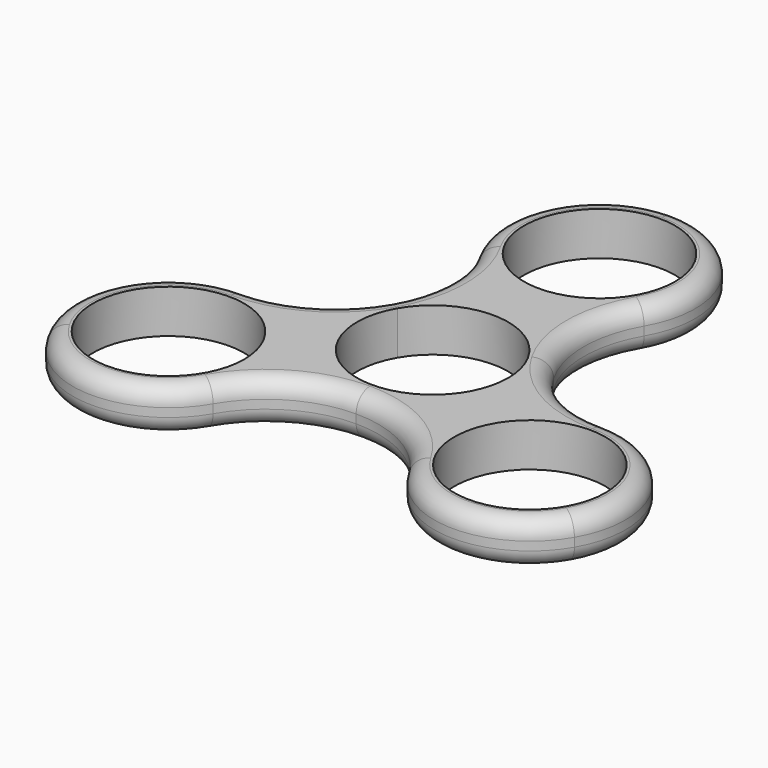
from build123d import *

# Parameters (mm, degrees)
F0_R     = 11.049
F1_DEPTH = 6.35
F2_R     = 2.54


with BuildPart() as f1:
    # F0 (on Top) → F1 (new body)
    with BuildSketch(Plane.XY):
        with BuildLine():
            ThreePointArc((-12.0983748909, 23.495), (-9.8864543073, 15.24), (-12.0983748909, 6.985))
            ThreePointArc((-12.0983748909, 6.985), (-1.1e-08, 13.97), (12.0983748798, 6.9850000191))
            ThreePointArc((12.0983748798, 6.9850000191), (9.8864543073, 15.240000011), (12.0983748909, 23.495))
            ThreePointArc((12.0983748909, 23.495), (12.0983748658, 37.4650000434), (-1.001e-07, 44.45))
            ThreePointArc((-1.001e-07, 44.45), (-12.0983749159, 37.4649999566), (-12.0983748909, 23.495))
        make_face()
        with Locations((0, 30.48)):
            Circle(F0_R, mode=Mode.SUBTRACT)
        with BuildLine():
            ThreePointArc((4.33e-08, -13.97), (-12.09837488, -6.9850000188), (-12.0983748909, 6.985))
            ThreePointArc((-12.0983748909, 6.985), (-18.1414543073, 0.9419205835), (-26.3964543073, -1.27))
            ThreePointArc((-26.3964543073, -1.27), (-38.494829072, -8.2549997814), (-38.4948294507, -22.2249995628))
            ThreePointArc((-38.4948294507, -22.2249995628), (-26.3964545598, -29.21), (-14.2980794165, -22.225))
            ThreePointArc((-14.2980794165, -22.225), (-8.2549999812, -16.1819205727), (4.33e-08, -13.97))
        make_face()
        with Locations((-26.3964543073, -15.24)):
            Circle(F0_R, mode=Mode.SUBTRACT)
        with BuildLine():
            ThreePointArc((26.3964543073, -1.27), (18.1414542978, 0.941920589), (12.0983748798, 6.9850000191))
            ThreePointArc((12.0983748798, 6.9850000191), (13.4939837904, 3.6157020707), (13.97, 0))
            ThreePointArc((13.97, 0), (9.8782817485, -9.8782817179), (4.33e-08, -13.97))
            ThreePointArc((4.33e-08, -13.97), (8.2550000188, -16.1819205943), (14.2980794165, -22.225))
            ThreePointArc((14.2980794165, -22.225), (26.3964543569, -29.21), (38.4948292477, -22.2249999142))
            ThreePointArc((38.4948292477, -22.2249999142), (38.4948291735, -8.2549999571), (26.3964543073, -1.27))
        make_face()
        with Locations((26.3964543073, -15.24)):
            Circle(F0_R, mode=Mode.SUBTRACT)
        with BuildLine():
            ThreePointArc((12.0983748798, 6.9850000191), (-1.1e-08, 13.97), (-12.0983748909, 6.985))
            ThreePointArc((-12.0983748909, 6.985), (-12.09837488, -6.9850000188), (4.33e-08, -13.97))
            ThreePointArc((4.33e-08, -13.97), (9.8782817485, -9.8782817179), (13.97, 0))
            ThreePointArc((13.97, 0), (13.4939837904, 3.6157020707), (12.0983748798, 6.9850000191))
        make_face()
        with BuildLine():
            ThreePointArc((-9.5687146864, 5.5245), (2.8596916293, 10.6725144547), (11.049, 0))
            ThreePointArc((11.049, 0), (-2.8596916293, -10.6725144547), (-9.5687146864, 5.5245))
        make_face(mode=Mode.SUBTRACT)
    extrude(amount=F1_DEPTH)

    # F2
    f2_edges = [f1.edges().sort_by_distance(p)[0] for p in [
        (-38.494829, -22.225, 6.35),
        (-38.494829, -22.225, 0),
    ]]
    fillet(f2_edges, radius=F2_R)


solid = f1.part
